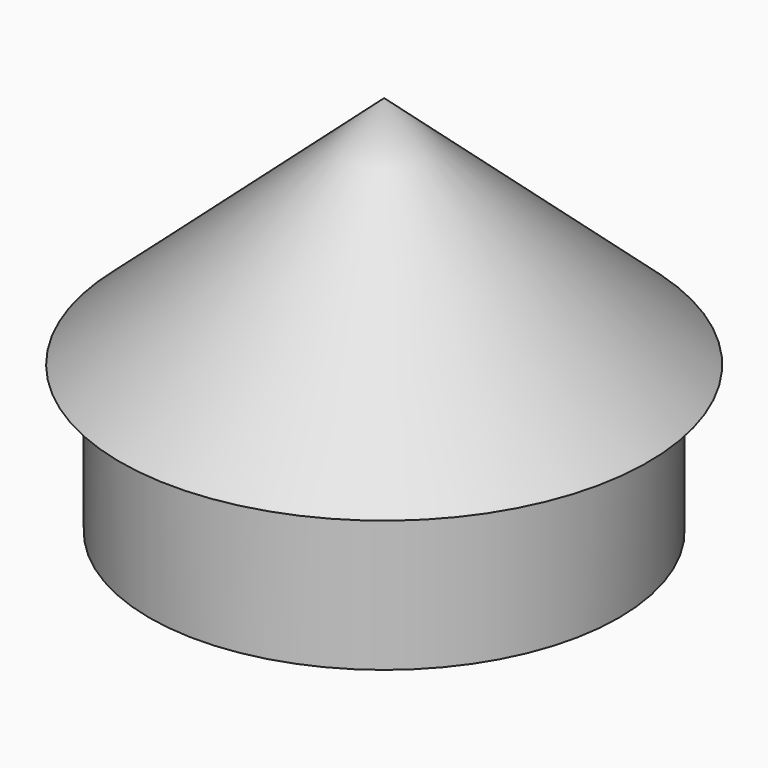
from build123d import *

# Parameters (mm, degrees)
F0_R     = 8
F1_DEPTH = 5


with BuildPart() as f1:
    # F0 (on Top) → F1 (new body)
    with BuildSketch(Plane.XY):
        Circle(F0_R)
    extrude(amount=-F1_DEPTH)

    # F2 (on Right) → F3 (revolve)
    with BuildSketch(Plane.YZ):
        Polygon((0, 8), (0, 0), (9, 0), align=None)
    revolve(axis=Axis((0, 0, 4), (0, 0, 1)))


solid = f1.part
